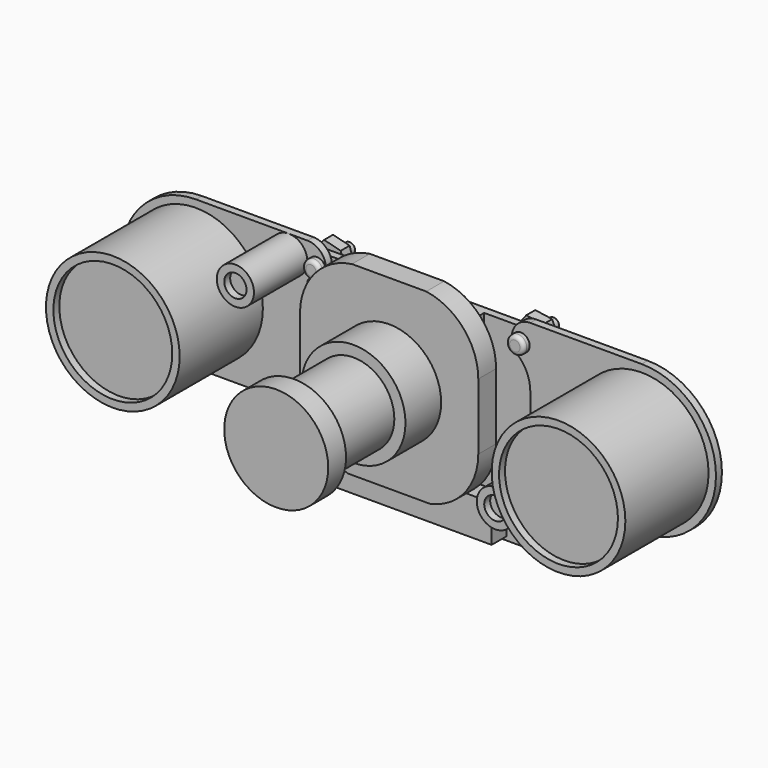
from build123d import *

# Parameters (mm, degrees)
F0_W      = 32
F0_H      = 26
F1_DEPTH  = 1
F3_DEPTH  = 1
F4_R      = 9
F4_R_2    = 8
F5_DEPTH  = 14
F6_R      = 2.5
F6_R_2    = 1.5
F7_DEPTH  = 9
F8_W      = 22
F8_H      = 5
F9_DEPTH  = 2.5
F10_W     = 16
F10_H     = 16.5
F11_DEPTH = 3
F13_DEPTH = 3
F14_R     = 7
F15_DEPTH = 6
F16_R     = 5.5
F17_DEPTH = 10
F18_R     = 7
F19_DEPTH = 3
F20_DEPTH = 13
F21_DEPTH = 8
F22_R     = 1.2
F23_DEPTH = 1
F24_R     = 0.5
F26_DEPTH = 1.5
F27_R     = 0.75
F28_DEPTH = 2
F29_W     = 4
F29_H     = 7
F30_DEPTH = 6
F31_R     = 0.25
F32_DEPTH = 2
F33_R     = 0.25
F34_DEPTH = 1


with BuildPart() as f1:
    # F0 (on Front) → F1 (new body)
    with BuildSketch(Plane.XZ):
        Rectangle(F0_W, F0_H)
    extrude(amount=F1_DEPTH)

    # F2 (on face) → F3 (join)
    with BuildSketch(Plane.XZ.offset(1)):
        with BuildLine():
            ThreePointArc((-13.3333333333, 10.1366100188), (-12.6645691026, 12.8920552244), (-15, 14.5))
            Line((-15, 14.5), (-30, 14.5))
            ThreePointArc((-30, 14.5), (-40, 4.5), (-30, -5.5))
            Line((-30, -5.5), (-15, -5.5))
            ThreePointArc((-15, -5.5), (-12.6645691026, -3.8920552244), (-13.3333333333, -1.1366100188))
            ThreePointArc((-13.3333333333, -1.1366100188), (-14.5643546459, 0.5489284914), (-15, 2.5901699437))
            Line((-15, 2.5901699437), (-15, 6.4098300563))
            ThreePointArc((-15, 6.4098300563), (-14.5643546459, 8.4510715086), (-13.3333333333, 10.1366100188))
        make_face()
        with BuildLine():
            ThreePointArc((13.3333333333, 10.1366100188), (14.5643546459, 8.4510715086), (15, 6.4098300563))
            Line((15, 6.4098300563), (15, 2.5901699437))
            ThreePointArc((15, 2.5901699437), (14.5643546459, 0.5489284914), (13.3333333333, -1.1366100188))
            ThreePointArc((13.3333333333, -1.1366100188), (12.6645691026, -3.8920552244), (15, -5.5))
            Line((15, -5.5), (30, -5.5))
            ThreePointArc((30, -5.5), (40, 4.5), (30, 14.5))
            Line((30, 14.5), (15, 14.5))
            ThreePointArc((15, 14.5), (12.6645691026, 12.8920552244), (13.3333333333, 10.1366100188))
        make_face()
    extrude(amount=F3_DEPTH)

    # F4 (on face) → F5 (join)
    with BuildSketch(Plane.XZ.offset(2)):
        with Locations((-30, 4.5)):
            Circle(F4_R)
        with Locations((-30, 4.5)):
            Circle(F4_R_2, mode=Mode.SUBTRACT)
        with Locations((30, 4.5)):
            Circle(F4_R)
        with Locations((30, 4.5)):
            Circle(F4_R_2, mode=Mode.SUBTRACT)
    extrude(amount=F5_DEPTH)

    # F6 (on face) → F7 (join)
    with BuildSketch(Plane.XZ.offset(2)):
        with Locations((-17.5, 12)):
            Circle(F6_R)
        with Locations((-17.5, 12)):
            Circle(F6_R_2, mode=Mode.SUBTRACT)
        with Locations((17.5, -3)):
            Circle(F6_R)
        with Locations((17.5, -3)):
            Circle(F6_R_2, mode=Mode.SUBTRACT)
    extrude(amount=F7_DEPTH)

    # F8 (on face) → F9 (join)
    with BuildSketch(Plane.XZ.offset(1)):
        with Locations((0, -10)):
            Rectangle(F8_W, F8_H)
    extrude(amount=F9_DEPTH)

    # F10 (on face) → F11 (join)
    with BuildSketch(Plane.XZ.offset(1)):
        with Locations((0, 4.75)):
            Rectangle(F10_W, F10_H)
    extrude(amount=F11_DEPTH)

    # F12 (on face) → F13 (join)
    with BuildSketch(Plane.XZ.offset(4)):
        with BuildLine():
            Line((5, 17), (-5, 17))
            ThreePointArc((-5, 17), (-10.0070053709, 14.2599828397), (-12, 8.9115466915))
            Line((-12, 8.9115466915), (-12, 0))
            ThreePointArc((-12, 0), (-10.170162501, -5.153882032), (-5.5, -8))
            Line((-5.5, -8), (5.5, -8))
            ThreePointArc((5.5, -8), (10.170162501, -5.153882032), (12, 0))
            Line((12, 0), (12, 8.9115466915))
            ThreePointArc((12, 8.9115466915), (10.0070053709, 14.2599828397), (5, 17))
        make_face()
    extrude(amount=F13_DEPTH)

    # F14 (on face) → F15 (join)
    with BuildSketch(Plane.XZ.offset(7)):
        with Locations((0, 4.5)):
            Circle(F14_R)
    extrude(amount=F15_DEPTH)

    # F16 (on face) → F17 (join)
    with BuildSketch(Plane.XZ.offset(13)):
        with Locations((0, 4.5)):
            Circle(F16_R)
    extrude(amount=F17_DEPTH)

    # F18 (on face) → F19 (join)
    with BuildSketch(Plane.XZ.offset(23)):
        with Locations((0, 4.5)):
            Circle(F18_R)
    extrude(amount=F19_DEPTH)

    # F20 (add): faces of the model
    f20_faces = [f1.faces().sort_by_distance(p)[0] for p in [
        (-30, -2, 4.5),
        (30, -2, 4.5),
    ]]
    extrude(f20_faces, amount=F20_DEPTH)

    # F21 (add): faces of the model
    f21_faces = [f1.faces().sort_by_distance(p)[0] for p in [
        (17.5, -2, -3),
        (-17.5, -2, 12),
    ]]
    extrude(f21_faces, amount=F21_DEPTH)

    # F22 (on face) → F23 (join)
    with BuildSketch(Plane.XZ.offset(2)):
        with Locations((-13.7226518032, 11.7583771864)):
            Circle(F22_R)
        with Locations((-13.7226518032, -3.2416228136)):
            Circle(F22_R)
        with Locations((13.7226518032, 11.7583771864)):
            Circle(F22_R)
        with Locations((13.7226518032, -3.2416228136)):
            Circle(F22_R)
    extrude(amount=F23_DEPTH)

    # F24
    f24_edges = [f1.edges().sort_by_distance(p)[0] for p in [
        (-14.922652, -3, 11.758377),
        (-14.922652, -3, -3.241623),
        (12.522652, -3, 11.758377),
        (12.522652, -3, -3.241623),
    ]]
    fillet(f24_edges, radius=F24_R)

    # F25 (on face) → F26 (join)
    with BuildSketch(Plane(origin=(0, 0, 0), x_dir=(-1, 0, 0), z_dir=(0, 1, 0))):
        Polygon((-15.1497724348, 13.5740478713), (-16.008629057, 11.4302898075), (-14.5815084254, 9.6146191226), (-12.2955311715, 9.9427065015), (-11.4366745493, 12.0864645652), (-12.863795181, 13.9021352501), align=None)
        Polygon((15.3299889793, 10.1001249331), (15.9624089685, 12.3212458867), (14.3550717923, 13.97949814), (12.115314627, 13.4166294396), (11.4828946379, 11.195508486), (13.090231814, 9.5372562327), align=None)
        Polygon((-13.2535514476, -5.5028787014), (-11.5297965822, -3.9659979326), (-11.9988969377, -1.7047420449), (-14.1917521587, -0.9803669259), (-15.9155070242, -2.5172476946), (-15.4464066686, -4.7785035823), align=None)
        Polygon((13.9503915154, -5.5397672732), (15.8267731428, -4.1934666672), (15.5990334306, -1.8953222076), (13.494912091, -0.9434783541), (11.6185304636, -2.2897789601), (11.8462701758, -4.5879234196), align=None)
    extrude(amount=F26_DEPTH)

    # F27 (on face) → F28 (join)
    with BuildSketch(Plane(origin=(0, 1.5, 0), x_dir=(-1, 0, 0), z_dir=(0, 1, 0))):
        with Locations((-13.7226518032, 11.7583771864)):
            Circle(F27_R)
        with Locations((-13.7226518032, -3.2416228136)):
            Circle(F27_R)
        with Locations((13.7226518032, -3.2416228136)):
            Circle(F27_R)
        with Locations((13.7226518032, 11.7583771864)):
            Circle(F27_R)
    extrude(amount=F28_DEPTH)

    # F29 (on face) → F30 (join)
    with BuildSketch(Plane.XZ.offset(1)):
        with Locations((-13.7, -9.2)):
            Rectangle(F29_W, F29_H)
    extrude(amount=F30_DEPTH)

    # F31 (on face) → F32 (join)
    with BuildSketch(Plane(origin=(-12, 0, 0), x_dir=(0, -1, 0), z_dir=(-1, 0, 0))):
        with Locations((5.5, 12.1115466915)):
            Circle(F31_R)
        with Locations((5.5, 11.4115466915)):
            Circle(F31_R)
    extrude(amount=-F32_DEPTH)

    # F33 (on face) → F34 (join)
    with BuildSketch(Plane.XZ.offset(7)):
        with Locations((-13.7, -8.85)):
            Circle(F33_R)
        with Locations((-13.7, -9.55)):
            Circle(F33_R)
    extrude(amount=F34_DEPTH)


solid = f1.part
